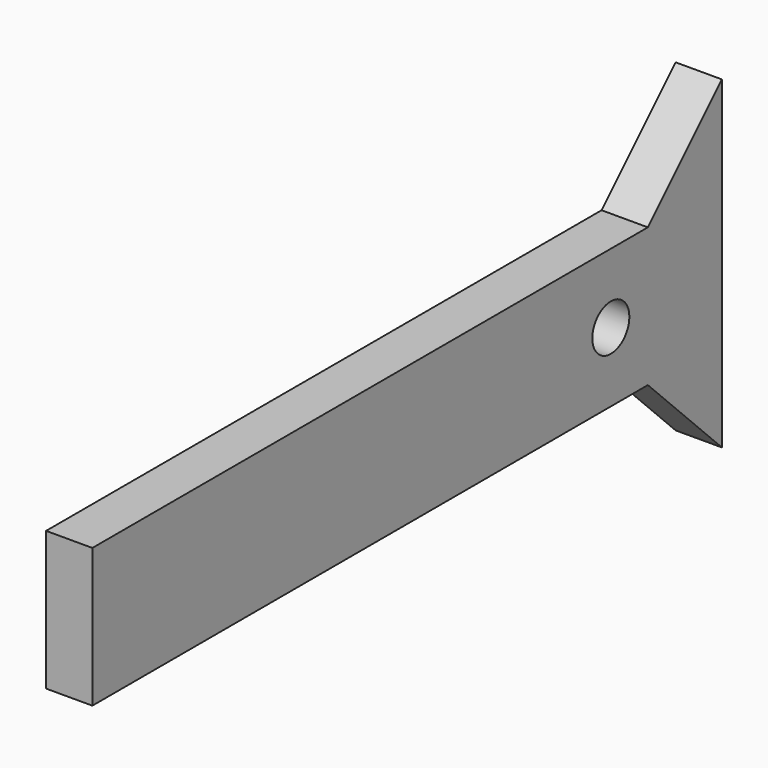
from build123d import *

# Parameters (mm, degrees)
F0_W     = 381
F0_H     = 76.2
F0_R     = 12.7
F1_DEPTH = 25.4


with BuildPart() as f1:
    # F0 (on Right) → F1 (new body)
    with BuildSketch(Plane.YZ):
        with Locations((-190.5, -38.1)):
            Rectangle(F0_W, F0_H)
        with Locations((-25.4, -38.1)):
            Circle(F0_R, mode=Mode.SUBTRACT)
        Polygon((50.8, 50.8), (0, 0), (0, -76.2), (50.8, -127), align=None)
    extrude(amount=F1_DEPTH)


solid = f1.part
